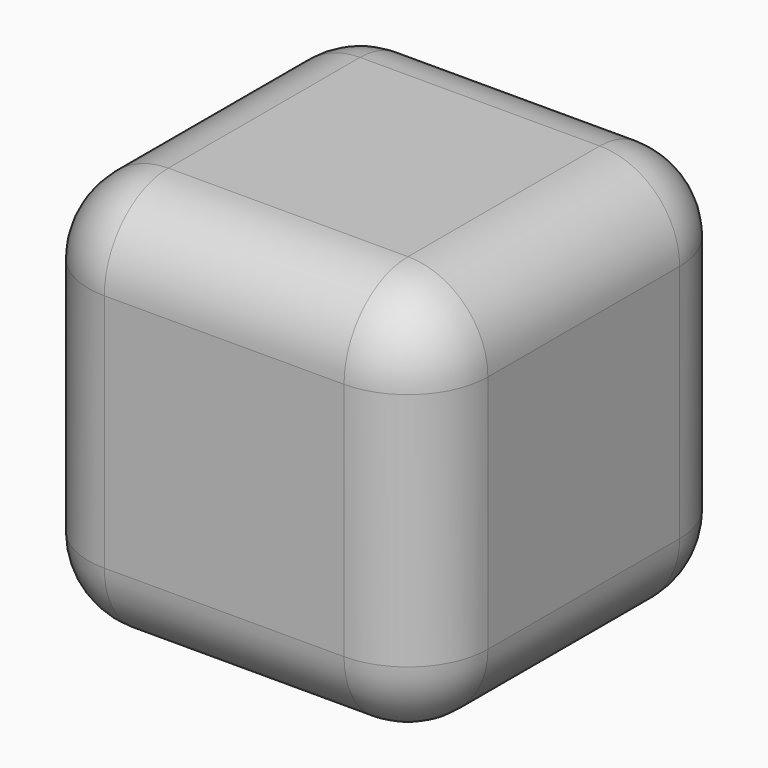
from build123d import *

# Parameters (mm, degrees)
F0_W     = 25.4
F0_H     = 25.400001
F1_DEPTH = 25.4
F2_R     = 5.08
F3_R     = 5.08
F4_R     = 5.08
F5_R     = 5.08
F6_R     = 5.08


with BuildPart() as f1:
    # F0 (on Top) → F1 (new body)
    with BuildSketch(Plane.XY):
        with Locations((-4.615962, 5.455227)):
            Rectangle(F0_W, F0_H)
    extrude(amount=F1_DEPTH)

    # F2
    f2_edges = [f1.edges().sort_by_distance(p)[0] for p in [
        (-17.315962, 5.455228, 25.4),
    ]]
    fillet(f2_edges, radius=F2_R)

    # F3
    f3_edges = [f1.edges().sort_by_distance(p)[0] for p in [
        (-2.075962, 18.155228, 25.4),
    ]]
    fillet(f3_edges, radius=F3_R)

    # F4
    f4_edges = [f1.edges().sort_by_distance(p)[0] for p in [
        (8.084038, 2.915228, 25.4),
    ]]
    fillet(f4_edges, radius=F4_R)

    # F5
    f5_edges = [f1.edges().sort_by_distance(p)[0] for p in [
        (-4.615962, -7.244773, 25.4),
    ]]
    fillet(f5_edges, radius=F5_R)

    # F6
    f6_edges = [f1.edges().sort_by_distance(p)[0] for p in [
        (-4.615962, -7.244773, 0),
    ]]
    fillet(f6_edges, radius=F6_R)


solid = f1.part
